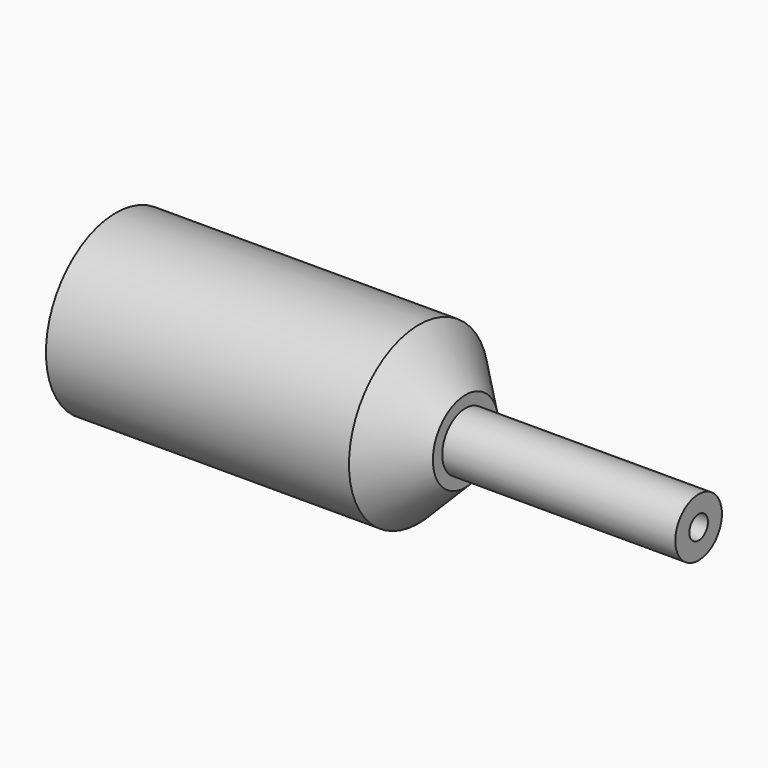
from build123d import *

# Parameters (mm, degrees)
F0_R     = 9.525
F1_DEPTH = 38.1
F2_SIZE  = 5.08
F3_R     = 3.175
F4_DEPTH = 25.4
F5_R     = 1.27
F6_DEPTH = 189.484


with BuildPart() as f1:
    # F0 (on Right) → F1 (new body)
    with BuildSketch(Plane.YZ):
        with Locations((-128.22786, 68.024091)):
            Circle(F0_R)
    extrude(amount=F1_DEPTH)

    # F2
    f2_edges = [f1.edges().sort_by_distance(p)[0] for p in [
        (38.1, -137.75286, 68.024091),
    ]]
    chamfer(f2_edges, length=F2_SIZE)

    # F3 (on face) → F4 (join)
    with BuildSketch(Plane.YZ.offset(38.1)):
        with Locations((-128.22786, 68.024091)):
            Circle(F3_R)
    extrude(amount=F4_DEPTH)

    # F5 (on face) → F6 (cut)
    with BuildSketch(Plane.YZ.offset(63.5)):
        with Locations((-128.22786, 68.024091)):
            Circle(F5_R)
    extrude(amount=-F6_DEPTH, mode=Mode.SUBTRACT)


solid = f1.part
